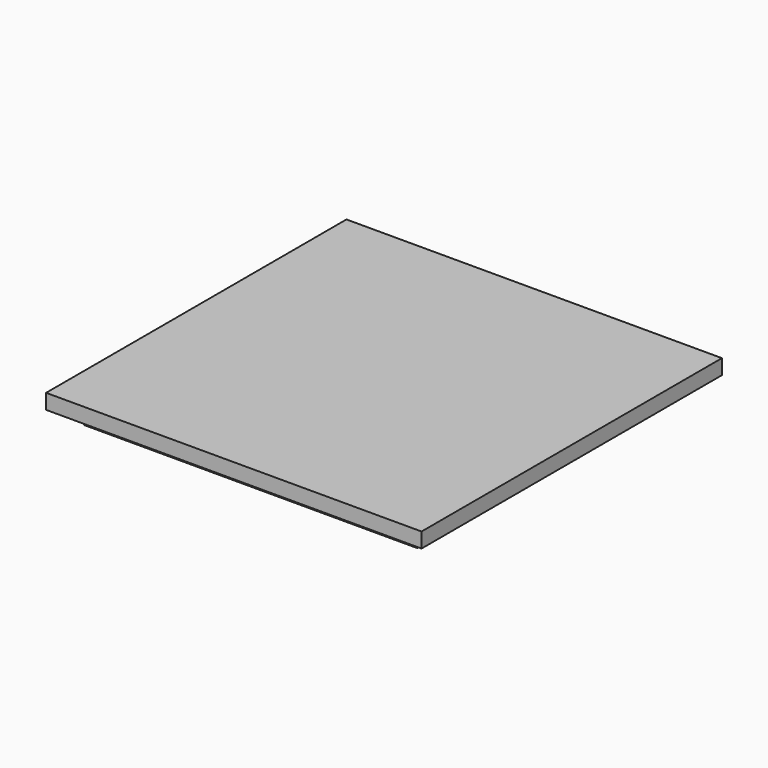
from build123d import *

# Parameters (mm, degrees)
F0_W     = 44.4
F0_H     = 44.4
F1_DEPTH = 2
F0_W_2   = 50
F0_H_2   = 50
F2_DEPTH = 2


with BuildPart() as f1:
    # F0 (on Top) → F1 (new body)
    with BuildSketch(Plane.XY):
        Rectangle(F0_W, F0_H)
    extrude(amount=-F1_DEPTH)

    # F0 (on Top) → F2 (join)
    with BuildSketch(Plane.XY):
        Rectangle(F0_W_2, F0_H_2)
        Rectangle(F0_W, F0_H, mode=Mode.SUBTRACT)
        Rectangle(F0_W, F0_H)
    extrude(amount=F2_DEPTH)


solid = f1.part
